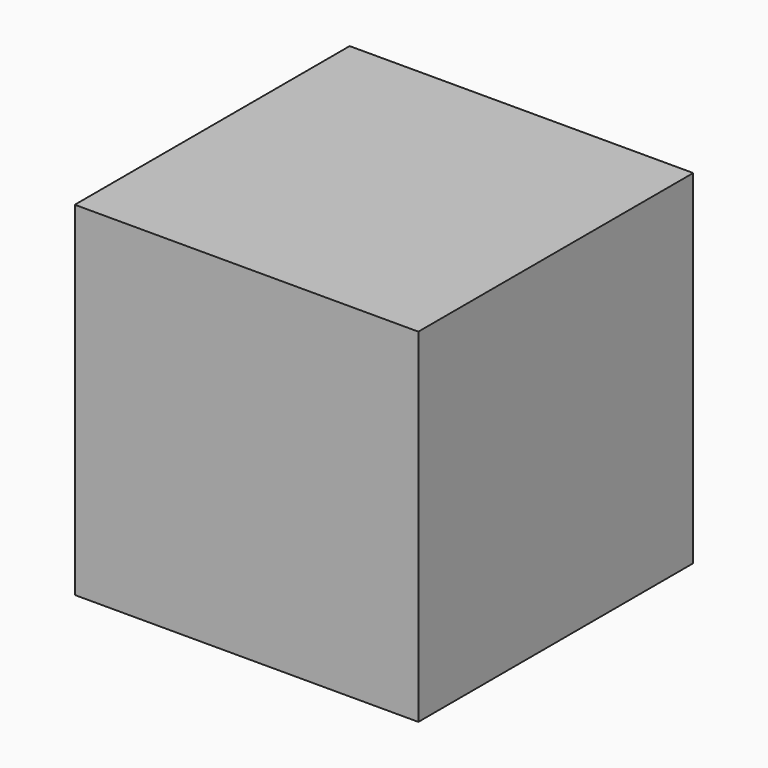
from build123d import *

# Parameters (mm, degrees)
F0_W     = 600
F0_H     = 600
F1_DEPTH = 600
F2_W     = 575
F2_H     = 425
F3_DEPTH = 25.4


with BuildPart() as f1:
    # F0 (on Front) → F1 (new body)
    with BuildSketch(Plane.XZ):
        Rectangle(F0_W, F0_H)
    extrude(amount=F1_DEPTH)

    # F2 (on face) → F3 (cut)
    with BuildSketch(Plane.YZ.offset(300)):
        with Locations((-312.5, -62.5)):
            Rectangle(F2_W, F2_H)
    extrude(amount=F3_DEPTH, mode=Mode.SUBTRACT)


solid = f1.part
